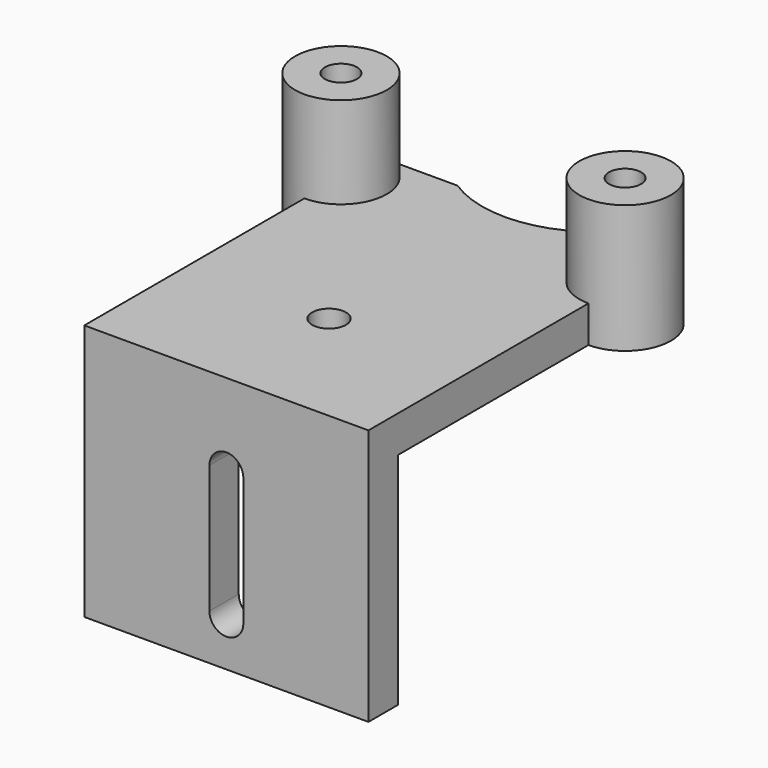
from build123d import *

# Parameters (mm, degrees)
F1_DEPTH = 4
F2_DEPTH = 14
F3_DEPTH = 30
F4_W     = 31
F4_H     = 4
F5_DEPTH = 24
F8_DEPTH = 25
F7_R     = 1.85
F9_DEPTH = 25


with BuildPart() as f1:
    # F0 (on Top) → F1 (new body)
    with BuildSketch(Plane.XY):
        with BuildLine():
            ThreePointArc((-4.1493639073, -29.25), (-2.9119270402, -29.7625631329), (-2.3993639073, -31))
            Line((-2.3993639073, -31), (0.8506360927, -31))
            ThreePointArc((0.8506360927, -31), (-0.6138300013, -27.4644660941), (-4.1493639073, -26))
            Line((-4.1493639073, -26), (-4.1493639073, -29.25))
        make_face()
        with BuildLine():
            Line((0.8506360927, -31), (-2.3993639073, -31))
            ThreePointArc((-2.3993639073, -31), (-5.3868007743, -32.2374368671), (-4.1493639073, -29.25))
            Line((-4.1493639073, -29.25), (-4.1493639073, -26))
            ThreePointArc((-4.1493639073, -26), (-9.1493639073, -31), (-4.1493639073, -36))
            ThreePointArc((-4.1493639073, -36), (-0.6138300013, -34.5355339059), (0.8506360927, -31))
        make_face()
        with BuildLine():
            ThreePointArc((-4.1493639073, -26), (-0.6138300013, -27.4644660941), (0.8506360927, -31))
            Line((0.8506360927, -31), (21.8506360927, -31))
            ThreePointArc((21.8506360927, -31), (23.3151021868, -27.4644660941), (26.8506360927, -26))
            Line((26.8506360927, -26), (18.1329660759, -26))
            ThreePointArc((18.1329660759, -26), (11.3506360927, -28), (4.5683061096, -26))
            Line((4.5683061096, -26), (-4.1493639073, -26))
        make_face()
        with BuildLine():
            ThreePointArc((26.8506360927, -26), (23.3151021868, -27.4644660941), (21.8506360927, -31))
            Line((21.8506360927, -31), (25.1006360927, -31))
            ThreePointArc((25.1006360927, -31), (25.6131992257, -29.7625631329), (26.8506360927, -29.25))
            Line((26.8506360927, -29.25), (26.8506360927, -26))
        make_face()
        with BuildLine():
            Line((25.1006360927, -31), (21.8506360927, -31))
            ThreePointArc((21.8506360927, -31), (23.3151021868, -34.5355339059), (26.8506360927, -36))
            ThreePointArc((26.8506360927, -36), (30.3861699987, -34.5355339059), (31.8506360927, -31))
            ThreePointArc((31.8506360927, -31), (30.3861699987, -27.4644660941), (26.8506360927, -26))
            Line((26.8506360927, -26), (26.8506360927, -29.25))
            ThreePointArc((26.8506360927, -29.25), (28.0880729598, -29.7625631329), (28.6006360927, -31))
            ThreePointArc((28.6006360927, -31), (26.8506360927, -32.75), (25.1006360927, -31))
        make_face()
        with BuildLine():
            Line((21.8506360927, -31), (0.8506360927, -31))
            ThreePointArc((0.8506360927, -31), (-0.6138300013, -34.5355339059), (-4.1493639073, -36))
            Line((-4.1493639073, -36), (26.8506360927, -36))
            ThreePointArc((26.8506360927, -36), (23.3151021868, -34.5355339059), (21.8506360927, -31))
        make_face()
        with BuildLine():
            Line((25.1006360927, -31), (21.8506360927, -31))
            ThreePointArc((21.8506360927, -31), (23.3151021868, -34.5355339059), (26.8506360927, -36))
            ThreePointArc((26.8506360927, -36), (30.3861699987, -34.5355339059), (31.8506360927, -31))
            ThreePointArc((31.8506360927, -31), (30.3861699987, -27.4644660941), (26.8506360927, -26))
            Line((26.8506360927, -26), (26.8506360927, -29.25))
            ThreePointArc((26.8506360927, -29.25), (28.0880729598, -29.7625631329), (28.6006360927, -31))
            ThreePointArc((28.6006360927, -31), (26.8506360927, -32.75), (25.1006360927, -31))
        make_face()
        with BuildLine():
            Line((0.8506360927, -31), (-2.3993639073, -31))
            ThreePointArc((-2.3993639073, -31), (-5.3868007743, -32.2374368671), (-4.1493639073, -29.25))
            Line((-4.1493639073, -29.25), (-4.1493639073, -26))
            ThreePointArc((-4.1493639073, -26), (-9.1493639073, -31), (-4.1493639073, -36))
            ThreePointArc((-4.1493639073, -36), (-0.6138300013, -34.5355339059), (0.8506360927, -31))
        make_face()
    extrude(amount=F1_DEPTH)

    # F0 (on Top) → F2 (join)
    with BuildSketch(Plane.XY):
        with BuildLine():
            ThreePointArc((-4.1493639073, -29.25), (-2.9119270402, -29.7625631329), (-2.3993639073, -31))
            Line((-2.3993639073, -31), (0.8506360927, -31))
            ThreePointArc((0.8506360927, -31), (-0.6138300013, -27.4644660941), (-4.1493639073, -26))
            Line((-4.1493639073, -26), (-4.1493639073, -29.25))
        make_face()
        with BuildLine():
            Line((0.8506360927, -31), (-2.3993639073, -31))
            ThreePointArc((-2.3993639073, -31), (-5.3868007743, -32.2374368671), (-4.1493639073, -29.25))
            Line((-4.1493639073, -29.25), (-4.1493639073, -26))
            ThreePointArc((-4.1493639073, -26), (-9.1493639073, -31), (-4.1493639073, -36))
            ThreePointArc((-4.1493639073, -36), (-0.6138300013, -34.5355339059), (0.8506360927, -31))
        make_face()
        with BuildLine():
            ThreePointArc((26.8506360927, -26), (23.3151021868, -27.4644660941), (21.8506360927, -31))
            Line((21.8506360927, -31), (25.1006360927, -31))
            ThreePointArc((25.1006360927, -31), (25.6131992257, -29.7625631329), (26.8506360927, -29.25))
            Line((26.8506360927, -29.25), (26.8506360927, -26))
        make_face()
        with BuildLine():
            Line((25.1006360927, -31), (21.8506360927, -31))
            ThreePointArc((21.8506360927, -31), (23.3151021868, -34.5355339059), (26.8506360927, -36))
            ThreePointArc((26.8506360927, -36), (30.3861699987, -34.5355339059), (31.8506360927, -31))
            ThreePointArc((31.8506360927, -31), (30.3861699987, -27.4644660941), (26.8506360927, -26))
            Line((26.8506360927, -26), (26.8506360927, -29.25))
            ThreePointArc((26.8506360927, -29.25), (28.0880729598, -29.7625631329), (28.6006360927, -31))
            ThreePointArc((28.6006360927, -31), (26.8506360927, -32.75), (25.1006360927, -31))
        make_face()
        with BuildLine():
            Line((0.8506360927, -31), (-2.3993639073, -31))
            ThreePointArc((-2.3993639073, -31), (-5.3868007743, -32.2374368671), (-4.1493639073, -29.25))
            Line((-4.1493639073, -29.25), (-4.1493639073, -26))
            ThreePointArc((-4.1493639073, -26), (-9.1493639073, -31), (-4.1493639073, -36))
            ThreePointArc((-4.1493639073, -36), (-0.6138300013, -34.5355339059), (0.8506360927, -31))
        make_face()
        with BuildLine():
            Line((25.1006360927, -31), (21.8506360927, -31))
            ThreePointArc((21.8506360927, -31), (23.3151021868, -34.5355339059), (26.8506360927, -36))
            ThreePointArc((26.8506360927, -36), (30.3861699987, -34.5355339059), (31.8506360927, -31))
            ThreePointArc((31.8506360927, -31), (30.3861699987, -27.4644660941), (26.8506360927, -26))
            Line((26.8506360927, -26), (26.8506360927, -29.25))
            ThreePointArc((26.8506360927, -29.25), (28.0880729598, -29.7625631329), (28.6006360927, -31))
            ThreePointArc((28.6006360927, -31), (26.8506360927, -32.75), (25.1006360927, -31))
        make_face()
    extrude(amount=F2_DEPTH)

    # F3 (add): a face of the model
    f3_faces = [f1.faces().sort_by_distance(p)[0] for p in [
        (11.3506360927, -36, 2),
    ]]
    extrude(f3_faces, amount=F3_DEPTH)

    # F4 (on face) → F5 (join)
    with BuildSketch(Plane(origin=(0, 0, 0), x_dir=(1, 0, 0), z_dir=(0, 0, -1))):
        with Locations((11.3506360927, 64)):
            Rectangle(F4_W, F4_H)
    extrude(amount=F5_DEPTH)

    # F6 (on face) → F8 (cut)
    with BuildSketch(Plane.XZ.offset(66)):
        with BuildLine():
            Line((13.2006360927, -19), (13.2006360927, -12))
            Line((13.2006360927, -12), (13.2006360927, -5))
            ThreePointArc((13.2006360927, -5), (11.3506360927, -3.15), (9.5006360927, -5))
            Line((9.5006360927, -5), (9.5006360927, -12))
            Line((9.5006360927, -12), (9.5006360927, -19))
            ThreePointArc((9.5006360927, -19), (11.3506360927, -20.85), (13.2006360927, -19))
        make_face()
    extrude(amount=-F8_DEPTH, mode=Mode.SUBTRACT)

    # F7 (on face) → F9 (cut)
    with BuildSketch(Plane.XY.offset(4)):
        with Locations((11.3506360927, -52)):
            Circle(F7_R)
    extrude(amount=-F9_DEPTH, mode=Mode.SUBTRACT)


solid = f1.part
